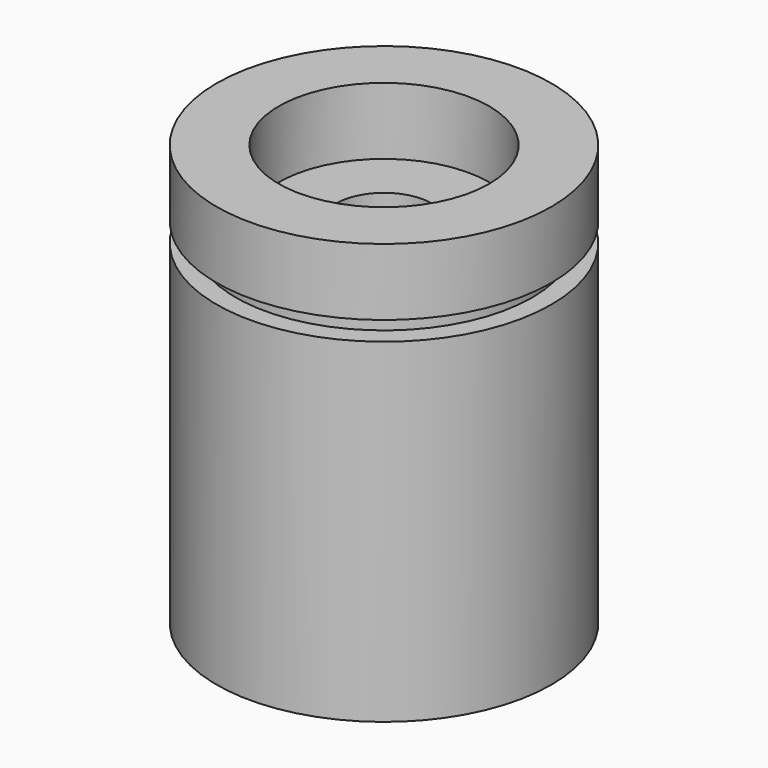
from build123d import *

# Parameters (mm, degrees)
F0_R     = 17.5
F0_R_2   = 5
F1_DEPTH = 15
F2_R     = 17.5
F2_R_2   = 11
F3_DEPTH = 7
F6_R     = 17.5
F6_R_2   = 15.5
F7_DEPTH = 2


with BuildPart() as f1:
    # F0 (on Top) → F1 (new body)
    with BuildSketch(Plane.XY):
        Circle(F0_R)
        Circle(F0_R_2, mode=Mode.SUBTRACT)
    extrude(amount=F1_DEPTH)

    # F2 (on face) → F3 (join)
    with BuildSketch(Plane.XY.offset(15)):
        Circle(F2_R)
        Circle(F2_R_2, mode=Mode.SUBTRACT)
    extrude(amount=F3_DEPTH)

    # F4: F1 across plane


with BuildPart() as f1_1:
    add(f1.part)
    add(f1.part.mirror(Plane.XY))

    # F6 (on offset) → F7 (cut)
    with BuildSketch(Plane.XY.offset(15)):
        Circle(F6_R)
        Circle(F6_R_2, mode=Mode.SUBTRACT)
    extrude(amount=-F7_DEPTH, mode=Mode.SUBTRACT)


solid = f1_1.part
